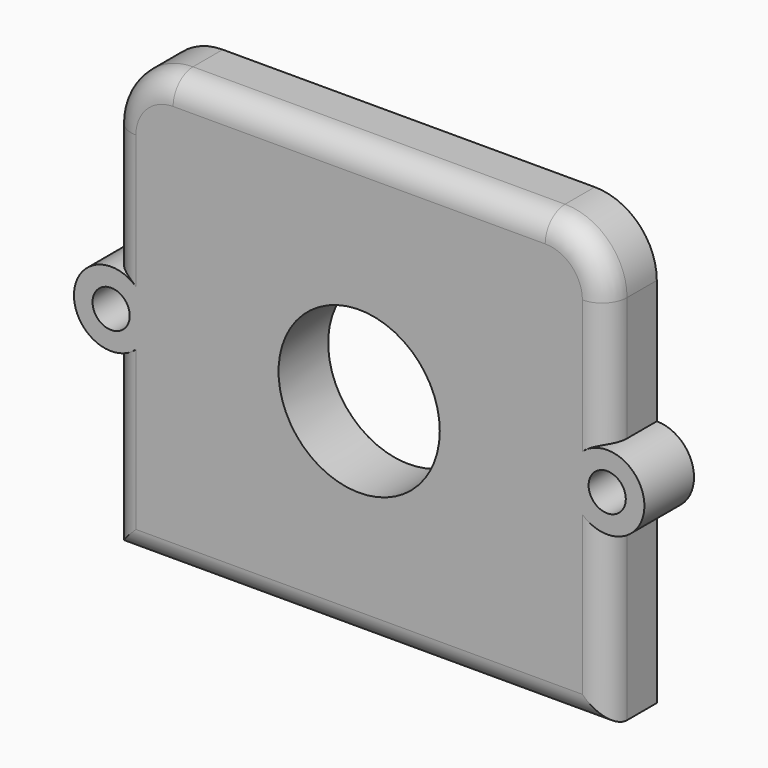
from build123d import *

# Parameters (mm, degrees)
F1_DEPTH = 5
F2_R     = 1.5
F3_DEPTH = 25
F4_R     = 6.5
F5_DEPTH = 25
F6_R     = 2


with BuildPart() as f1:
    # F0 (on Front) → F1 (new body)
    with BuildSketch(Plane.XZ):
        with BuildLine():
            Line((0, 14), (0, 0))
            Line((0, 0), (40, 0))
            Line((40, 0), (40, 14))
            ThreePointArc((40, 14), (43, 17), (40, 20))
            Line((40, 20), (40, 30))
            ThreePointArc((40, 30), (38.535534, 33.535534), (35, 35))
            Line((35, 35), (5, 35))
            ThreePointArc((5, 35), (1.464466, 33.535534), (0, 30))
            Line((0, 30), (0, 20))
            ThreePointArc((0, 20), (-3, 17), (0, 14))
        make_face()
    extrude(amount=F1_DEPTH)

    # F2 (on face) → F3 (cut)
    with BuildSketch(Plane.XZ.offset(5)):
        with Locations((0, 17)):
            Circle(F2_R)
        with Locations((40, 17)):
            Circle(F2_R)
    extrude(amount=-F3_DEPTH, mode=Mode.SUBTRACT)

    # F4 (on face) → F5 (cut)
    with BuildSketch(Plane.XZ.offset(5)):
        with Locations((20, 16.952448)):
            Circle(F4_R)
    extrude(amount=-F5_DEPTH, mode=Mode.SUBTRACT)

    # F6
    f6_edges = [f1.edges().sort_by_distance(p)[0] for p in [
        (0, -5, 25),
        (40, -5, 7),
        (20, -5, 0),
        (0, -5, 7),
    ]]
    fillet(f6_edges, radius=F6_R)


solid = f1.part
